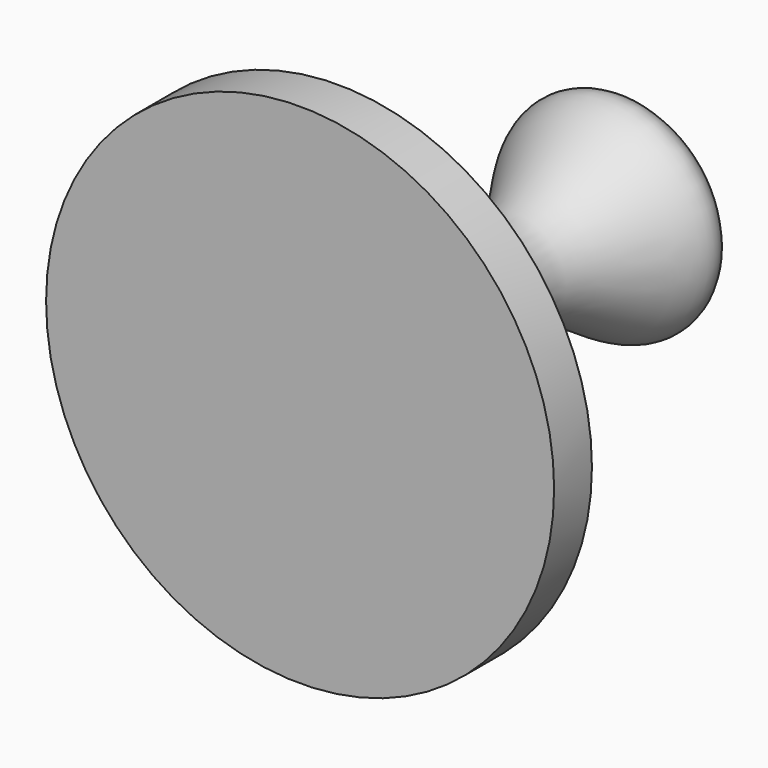
from build123d import *


with BuildPart() as f1:
    # F0 (on Top) → F1 (revolve)
    with BuildSketch(Plane.XY):
        with BuildLine():
            Line((11.839224396, 2.203310631), (11.839224396, 2.1730426539))
            add(Edge.make_bspline(
                [(11.839224396, 2.1730426539), (11.8431220609, 2.1805933172), (11.8424018015, 2.1911517688), (11.839224396, 2.203310631)],
                knots=[0.9756578013, 0.9756578013, 0.9756578013, 0.9756578013, 0.9870477866, 0.9870477866, 0.9870477866, 0.9870477866], degree=3))
        make_face()
    revolve(axis=Axis((0, 10.3206532076, 0), (0, 1, 0)))


with BuildPart() as f1b:
    # F0 (on Top) → F1, piece 2 (revolve)
    with BuildSketch(Plane.XY):
        with BuildLine():
            Line((0, 20.6413064152), (0, 0))
            Line((0, 0), (11.839224396, 0))
            Line((11.839224396, 0), (11.839224396, 2.1730426539))
            add(Edge.make_bspline(
                [(0, 20.6413064152), (2.4740467691, 19.9996951015), (7.8196779652, 18.6133763393), (-2.8453877152, 10.7368187571), (11.5737781656, 1.9768212297), (11.8363314431, 2.1674383462), (11.839224396, 2.1730426539)],
                knots=[0, 0, 0, 0, 0.2626083039, 0.5674133405, 0.9672038444, 0.9756578013, 0.9756578013, 0.9756578013, 0.9756578013], degree=3))
        make_face()
    revolve(axis=Axis((0, 10.3206532076, 0), (0, 1, 0)))


solid = Compound([f1.part, f1b.part])
